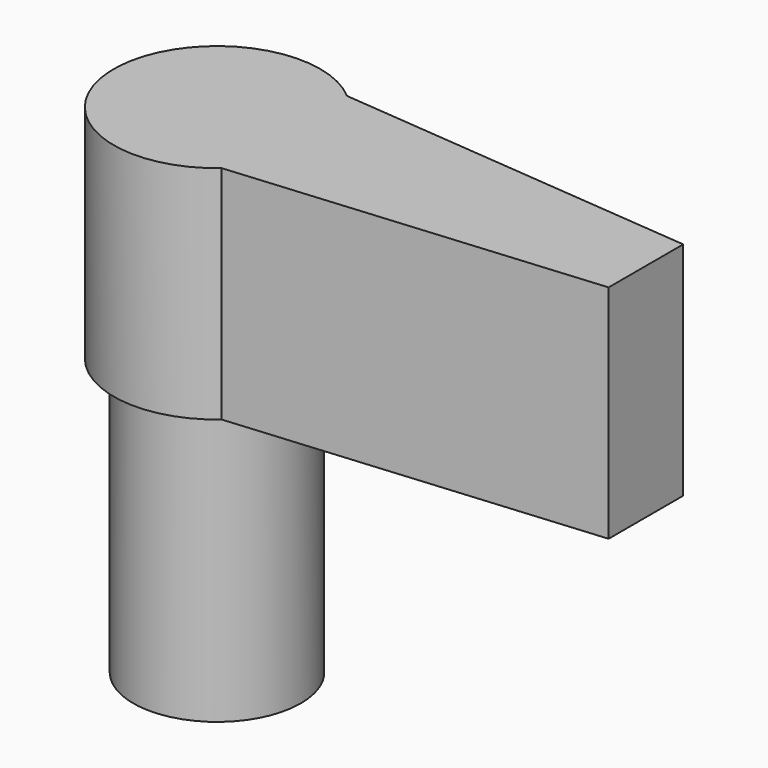
from build123d import *

# Parameters (mm, degrees)
F0_R     = 3.175
F1_DEPTH = 10.4648
F3_DEPTH = 8.382


with BuildPart() as f1:
    # F0 (on Top) → F1 (new body)
    with BuildSketch(Plane.XY):
        Circle(F0_R)
    extrude(amount=F1_DEPTH)

    # F2 (on face) → F3 (join)
    with BuildSketch(Plane.XY.offset(10.4648)):
        with BuildLine():
            Line((16.256, 1.750229), (2.555457, 2.961462))
            ThreePointArc((2.555457, 2.961462), (-3.911598, 0.00383), (2.549653, -2.96646))
            Line((2.549653, -2.96646), (16.256, -1.781758))
            Line((16.256, -1.781758), (16.256, 0))
            Line((16.256, 0), (16.256, 1.750229))
        make_face()
    extrude(amount=F3_DEPTH)


solid = f1.part
